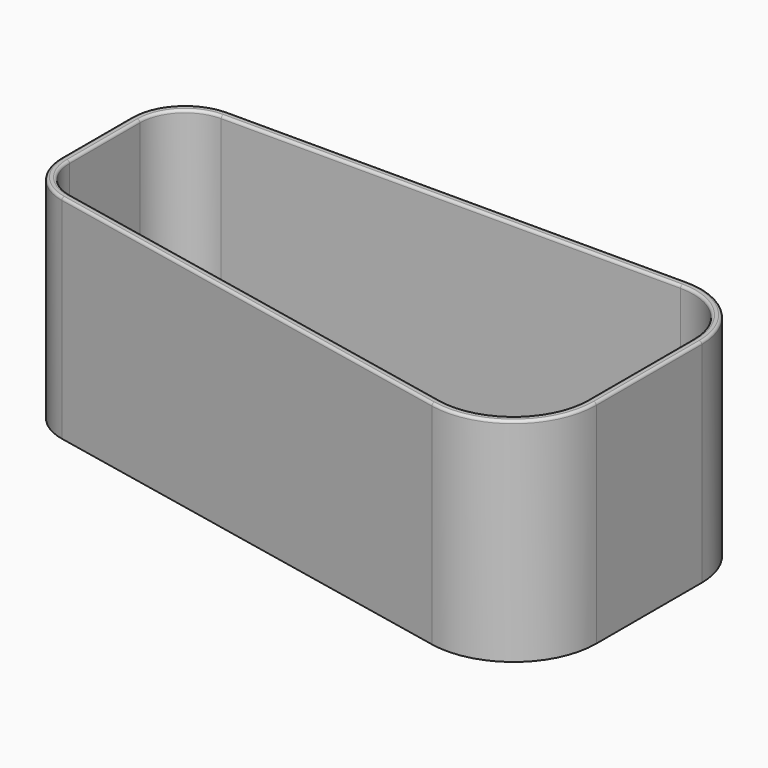
from build123d import *

# Parameters (mm, degrees)
F1_DEPTH = 1
F2_DEPTH = 40
F3_R     = 0.5


with BuildPart() as f1:
    # F0 (on Top) → F1 (new body)
    with BuildSketch(Plane.XY):
        with BuildLine():
            ThreePointArc((0, -12), (-3.514719, -3.514719), (-12, 0))
            Line((-12, 0), (-98.5, 0))
            ThreePointArc((-98.5, 0), (-104.510408, -2.489592), (-107, -8.5))
            Line((-107, -8.5), (-107, -25.069857))
            ThreePointArc((-107, -25.069857), (-105.087897, -30.441041), (-100.211854, -33.395694))
            Line((-100.211854, -33.395694), (-16.819525, -50.54178))
            ThreePointArc((-16.819525, -50.54178), (-5.153344, -47.67929), (0, -36.828637))
            Line((0, -36.828637), (0, -12))
        make_face()
    extrude(amount=F1_DEPTH)

    # F0 (on Top) → F2 (join)
    with BuildSketch(Plane.XY):
        with BuildLine():
            Line((1.6, -36.828637), (1.6, -12))
            ThreePointArc((1.6, -12), (-2.383348, -2.383348), (-12, 1.6))
            Line((-12, 1.6), (-98.5, 1.6))
            ThreePointArc((-98.5, 1.6), (-105.641778, -1.358222), (-108.6, -8.5))
            Line((-108.6, -8.5), (-108.6, -25.069857))
            ThreePointArc((-108.6, -25.069857), (-106.327971, -31.452088), (-100.534086, -34.96291))
            Line((-100.534086, -34.96291), (-17.141756, -52.108996))
            ThreePointArc((-17.141756, -52.108996), (-4.142297, -48.919365), (1.6, -36.828637))
        make_face()
        with BuildLine():
            Line((-98.5, 0), (-12, 0))
            ThreePointArc((-12, 0), (-3.514719, -3.514719), (0, -12))
            Line((0, -12), (0, -36.828637))
            ThreePointArc((0, -36.828637), (-5.153344, -47.67929), (-16.819525, -50.54178))
            Line((-16.819525, -50.54178), (-100.211854, -33.395694))
            ThreePointArc((-100.211854, -33.395694), (-105.087897, -30.441041), (-107, -25.069857))
            Line((-107, -25.069857), (-107, -8.5))
            ThreePointArc((-107, -8.5), (-104.510408, -2.489592), (-98.5, 0))
        make_face(mode=Mode.SUBTRACT)
    extrude(amount=F2_DEPTH)

    # F3
    f3_edges = [f1.edges().sort_by_distance(p)[0] for p in [
        (-58.837921, -43.535953, 40),
        (-58.515689, -41.968737, 40),
    ]]
    fillet(f3_edges, radius=F3_R)


solid = f1.part
